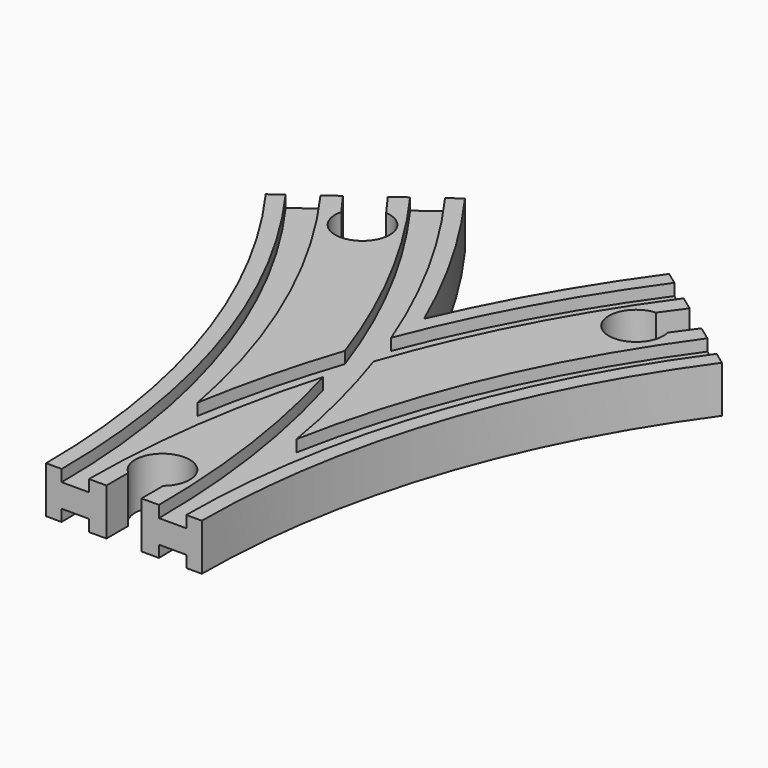
from build123d import *

# Parameters (mm, degrees)
SKETCH003_W          = 7
SKETCH003_H          = 3
SKETCH004_W          = 7
SKETCH004_H          = 3
SKETCH005_W          = 7
SKETCH005_H          = 3
SKETCH006_W          = 7
SKETCH006_H          = 3
POCKET_DEPTH         = 6.001
POCKET_DEPTH_BACK    = -6.001
POCKET001_DEPTH      = 6.001
POCKET001_DEPTH_BACK = -6.001
POCKET002_DEPTH      = 6.001
POCKET002_DEPTH_BACK = -6.001


with BuildPart() as part:
    # AdditivePipe: sweep along a path in Sketch
    with BuildLine(Plane.XY) as additivepipe_path:
        ThreePointArc((0, 0), (-10.865453, 68.601773), (-42.398227, 130.488326))
    # Sketch002 → AdditivePipe (sweep)
    with BuildSketch(Plane.XZ):
        Polygon((-20, 6), (-20, -6), (-16, -6), (-16, -3), (-9, -3), (-9, -6), (9, -6), (9, -3), (16, -3), (16, -6), (20, -6), (20, 6), (16, 6), (16, 3), (9, 3), (9, 6), (-9, 6), (-9, 3), (-16, 3), (-16, 6), align=None)
    sweep(path=additivepipe_path.line)

    # AdditivePipe001: sweep along a path in Sketch001
    with BuildLine(Plane.XY) as additivepipe001_path:
        ThreePointArc((42.398227, 130.488326), (10.865453, 68.601773), (0, 0))
    # Sketch002 → AdditivePipe001 (sweep)
    with BuildSketch(Plane.XZ):
        Polygon((-20, 6), (-20, -6), (-16, -6), (-16, -3), (-9, -3), (-9, -6), (9, -6), (9, -3), (16, -3), (16, -6), (20, -6), (20, 6), (16, 6), (16, 3), (9, 3), (9, 6), (-9, 6), (-9, 3), (-16, 3), (-16, 6), align=None)
    sweep(path=additivepipe001_path.line)

    # SubtractivePipe: sweep along a path in Sketch
    with BuildLine(Plane.XY) as subtractivepipe_path:
        ThreePointArc((0, 0), (-10.865453, 68.601773), (-42.398227, 130.488326))
    # Sketch003 → SubtractivePipe (sweep, cut)
    with BuildSketch(Plane.XZ):
        with Locations((-12.5, 4.5)):
            Rectangle(SKETCH003_W, SKETCH003_H)
    sweep(path=subtractivepipe_path.line, mode=Mode.SUBTRACT)

    # SubtractivePipe001: sweep along a path in Sketch001
    with BuildLine(Plane.XY) as subtractivepipe001_path:
        ThreePointArc((42.398227, 130.488326), (10.865453, 68.601773), (0, 0))
    # Sketch003 → SubtractivePipe001 (sweep, cut)
    with BuildSketch(Plane.XZ):
        with Locations((-12.5, 4.5)):
            Rectangle(SKETCH003_W, SKETCH003_H)
    sweep(path=subtractivepipe001_path.line, mode=Mode.SUBTRACT)

    # SubtractivePipe002: sweep along a path in Sketch
    with BuildLine(Plane.XY) as subtractivepipe002_path:
        ThreePointArc((0, 0), (-10.865453, 68.601773), (-42.398227, 130.488326))
    # Sketch004 → SubtractivePipe002 (sweep, cut)
    with BuildSketch(Plane.XZ):
        with Locations((12.5, 4.5)):
            Rectangle(SKETCH004_W, SKETCH004_H)
    sweep(path=subtractivepipe002_path.line, mode=Mode.SUBTRACT)

    # SubtractivePipe003: sweep along a path in Sketch001
    with BuildLine(Plane.XY) as subtractivepipe003_path:
        ThreePointArc((42.398227, 130.488326), (10.865453, 68.601773), (0, 0))
    # Sketch004 → SubtractivePipe003 (sweep, cut)
    with BuildSketch(Plane.XZ):
        with Locations((12.5, 4.5)):
            Rectangle(SKETCH004_W, SKETCH004_H)
    sweep(path=subtractivepipe003_path.line, mode=Mode.SUBTRACT)

    # SubtractivePipe004: sweep along a path in Sketch
    with BuildLine(Plane.XY) as subtractivepipe004_path:
        ThreePointArc((0, 0), (-10.865453, 68.601773), (-42.398227, 130.488326))
    # Sketch005 → SubtractivePipe004 (sweep, cut)
    with BuildSketch(Plane.XZ):
        with Locations((-12.5, -4.5)):
            Rectangle(SKETCH005_W, SKETCH005_H)
    sweep(path=subtractivepipe004_path.line, mode=Mode.SUBTRACT)

    # SubtractivePipe005: sweep along a path in Sketch001
    with BuildLine(Plane.XY) as subtractivepipe005_path:
        ThreePointArc((42.398227, 130.488326), (10.865453, 68.601773), (0, 0))
    # Sketch005 → SubtractivePipe005 (sweep, cut)
    with BuildSketch(Plane.XZ):
        with Locations((-12.5, -4.5)):
            Rectangle(SKETCH005_W, SKETCH005_H)
    sweep(path=subtractivepipe005_path.line, mode=Mode.SUBTRACT)

    # SubtractivePipe006: sweep along a path in Sketch
    with BuildLine(Plane.XY) as subtractivepipe006_path:
        ThreePointArc((0, 0), (-10.865453, 68.601773), (-42.398227, 130.488326))
    # Sketch006 → SubtractivePipe006 (sweep, cut)
    with BuildSketch(Plane.XZ):
        with Locations((12.5, -4.5)):
            Rectangle(SKETCH006_W, SKETCH006_H)
    sweep(path=subtractivepipe006_path.line, mode=Mode.SUBTRACT)

    # SubtractivePipe007: sweep along a path in Sketch001
    with BuildLine(Plane.XY) as subtractivepipe007_path:
        ThreePointArc((42.398227, 130.488326), (10.865453, 68.601773), (0, 0))
    # Sketch006 → SubtractivePipe007 (sweep, cut)
    with BuildSketch(Plane.XZ):
        with Locations((12.5, -4.5)):
            Rectangle(SKETCH006_W, SKETCH006_H)
    sweep(path=subtractivepipe007_path.line, mode=Mode.SUBTRACT)

    # Sketch007 → Pocket (cut, two sides)
    with BuildSketch(Plane.XY) as pocket_sk:
        with BuildLine():
            Line((-4.5, 0), (4.5, 0))
            Line((4.5, 0), (4.5, 7))
            ThreePointArc((4.5, 7), (0, 19.361903), (-4.5, 7))
            Line((-4.5, 0), (-4.5, 7))
        make_face()
    extrude(amount=-POCKET_DEPTH, mode=Mode.SUBTRACT)
    extrude(pocket_sk.sketch, amount=-POCKET_DEPTH_BACK, mode=Mode.SUBTRACT)

    # Sketch008 → Pocket001 (cut, two sides)
    with BuildSketch(Plane.XY) as pocket001_sk:
        with BuildLine():
            Line((-46.038804, 127.843292), (-38.757651, 133.13336))
            Line((-38.757651, 133.13336), (-34.643154, 127.470241))
            ThreePointArc((-41.924307, 122.180173), (-31.017586, 114.824218), (-34.643154, 127.470241))
            Line((-46.038804, 127.843292), (-41.924307, 122.180173))
        make_face()
    extrude(amount=-POCKET001_DEPTH, mode=Mode.SUBTRACT)
    extrude(pocket001_sk.sketch, amount=-POCKET001_DEPTH_BACK, mode=Mode.SUBTRACT)

    # Sketch009 → Pocket002 (cut, two sides)
    with BuildSketch(Plane.XY) as pocket002_sk:
        with BuildLine():
            Line((38.757651, 133.13336), (46.038804, 127.843292))
            Line((46.038804, 127.843292), (41.924307, 122.180173))
            ThreePointArc((34.643154, 127.470241), (31.017586, 114.824218), (41.924307, 122.180173))
            Line((38.757651, 133.13336), (34.643154, 127.470241))
        make_face()
    extrude(amount=-POCKET002_DEPTH, mode=Mode.SUBTRACT)
    extrude(pocket002_sk.sketch, amount=-POCKET002_DEPTH_BACK, mode=Mode.SUBTRACT)


solid = part.part
